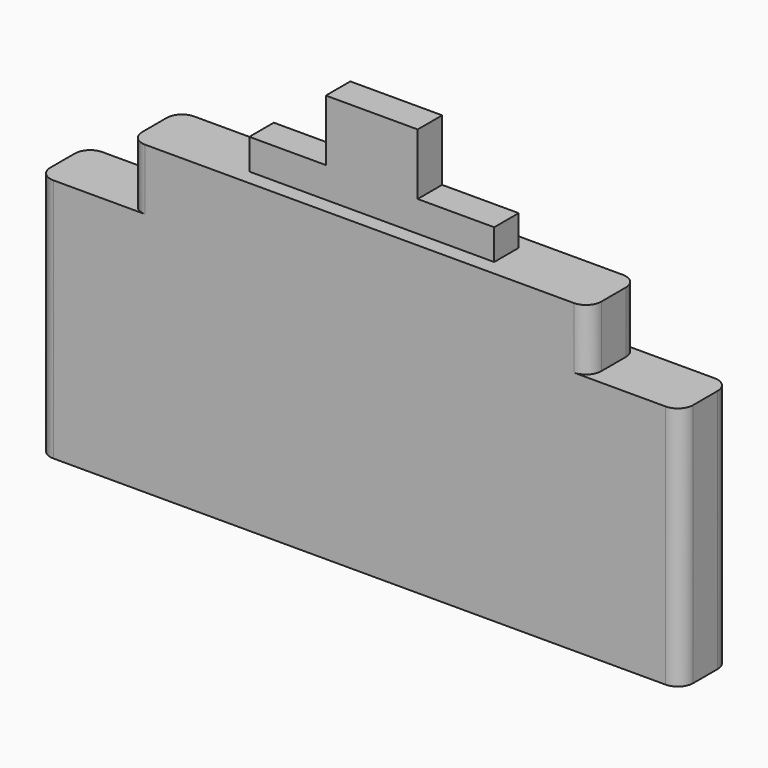
from build123d import *

# Parameters (mm, degrees)
F0_W     = 5
F0_H     = 2
F0_W_2   = 6
F1_DEPTH = 16
F2_DEPTH = 4
F3_DEPTH = 6
F4_DEPTH = 10


with BuildPart() as f1:
    # F0 (on Top) → F1 (new body)
    with BuildSketch(Plane.XY):
        with BuildLine():
            Line((-20, -2), (-14, -2))
            ThreePointArc((-14, -2), (-14.707107, -1.707107), (-15, -1))
            Line((-15, -1), (-15, 1))
            ThreePointArc((-15, 1), (-14.707107, 1.707107), (-14, 2))
            Line((-14, 2), (-20, 2))
            ThreePointArc((-20, 2), (-20.707107, 1.707107), (-21, 1))
            Line((-21, 1), (-21, -1))
            ThreePointArc((-21, -1), (-20.707107, -1.707107), (-20, -2))
        make_face()
        with BuildLine():
            Line((-14, -2), (14, -2))
            ThreePointArc((14, -2), (14.707107, -1.707107), (15, -1))
            Line((15, -1), (15, 1))
            ThreePointArc((15, 1), (14.707107, 1.707107), (14, 2))
            Line((14, 2), (-14, 2))
            ThreePointArc((-14, 2), (-14.707107, 1.707107), (-15, 1))
            Line((-15, 1), (-15, -1))
            ThreePointArc((-15, -1), (-14.707107, -1.707107), (-14, -2))
        make_face()
        Polygon((8, -1), (3, -1), (-3, -1), (-8, -1), (-8, 1), (-3, 1), (3, 1), (8, 1), align=None, mode=Mode.SUBTRACT)
        with Locations((-5.5, 0)):
            Rectangle(F0_W, F0_H)
        Rectangle(F0_W_2, F0_H)
        with Locations((5.5, 0)):
            Rectangle(F0_W, F0_H)
        with BuildLine():
            Line((14, -2), (20, -2))
            ThreePointArc((20, -2), (20.707107, -1.707107), (21, -1))
            Line((21, -1), (21, 1))
            ThreePointArc((21, 1), (20.707107, 1.707107), (20, 2))
            Line((20, 2), (14, 2))
            ThreePointArc((14, 2), (14.707107, 1.707107), (15, 1))
            Line((15, 1), (15, -1))
            ThreePointArc((15, -1), (14.707107, -1.707107), (14, -2))
        make_face()
    extrude(amount=-F1_DEPTH)

    # F0 (on Top) → F2 (join)
    with BuildSketch(Plane.XY):
        with BuildLine():
            Line((-14, -2), (14, -2))
            ThreePointArc((14, -2), (14.707107, -1.707107), (15, -1))
            Line((15, -1), (15, 1))
            ThreePointArc((15, 1), (14.707107, 1.707107), (14, 2))
            Line((14, 2), (-14, 2))
            ThreePointArc((-14, 2), (-14.707107, 1.707107), (-15, 1))
            Line((-15, 1), (-15, -1))
            ThreePointArc((-15, -1), (-14.707107, -1.707107), (-14, -2))
        make_face()
        Polygon((8, -1), (3, -1), (-3, -1), (-8, -1), (-8, 1), (-3, 1), (3, 1), (8, 1), align=None, mode=Mode.SUBTRACT)
    extrude(amount=F2_DEPTH)

    # F0 (on Top) → F3 (join)
    with BuildSketch(Plane.XY):
        with Locations((-5.5, 0)):
            Rectangle(F0_W, F0_H)
        with Locations((5.5, 0)):
            Rectangle(F0_W, F0_H)
    extrude(amount=F3_DEPTH)

    # F0 (on Top) → F4 (join)
    with BuildSketch(Plane.XY):
        Rectangle(F0_W_2, F0_H)
    extrude(amount=F4_DEPTH)


solid = f1.part
